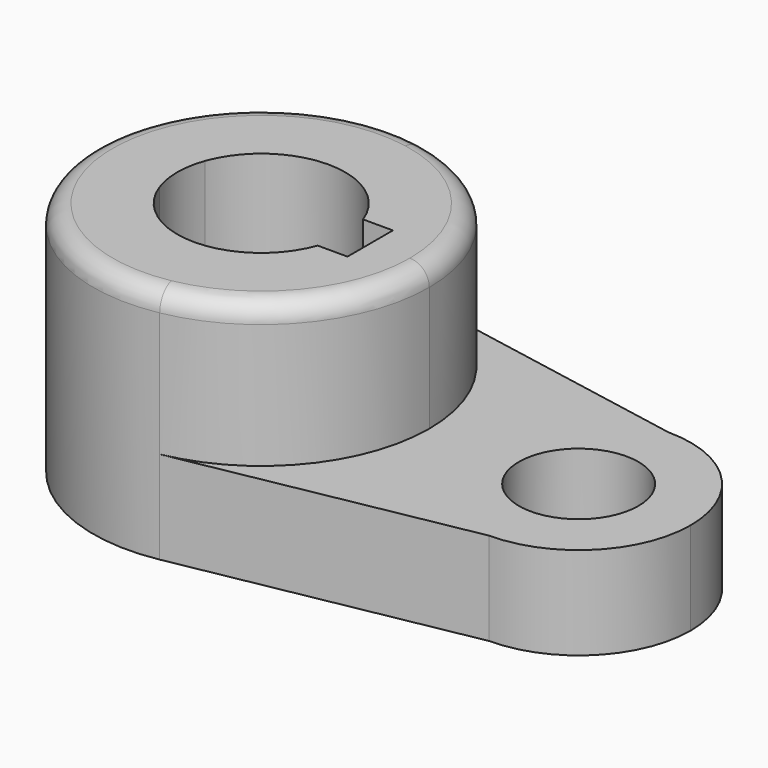
from build123d import *

# Parameters (mm, degrees)
F1_DEPTH = 40.2336
F0_R     = 10.16
F2_DEPTH = 15.7734
F3_R     = 3.302


with BuildPart() as f1:
    # F0 (on Top) → F1 (new body)
    with BuildSketch(Plane.XY):
        with BuildLine():
            ThreePointArc((5.2118162755, -28.0956864325), (21.9710977772, -18.2702350139), (28.575, 0))
            ThreePointArc((28.575, 0), (21.9710978292, 18.2702349515), (5.2118164352, 28.0956864028))
            ThreePointArc((5.2118164352, 28.0956864028), (-28.575, 8.12e-08), (5.2118162755, -28.0956864325))
        make_face()
        with BuildLine():
            ThreePointArc((-13.4477648793, 4.826), (0, 14.2875), (13.4477648793, 4.826))
            Line((13.4477648793, 4.826), (18.5293, 4.826))
            Line((18.5293, 4.826), (18.5293, -4.826))
            Line((18.5293, -4.826), (13.4477648793, -4.826))
            ThreePointArc((13.4477648793, -4.826), (0, -14.2875), (-13.4477648793, -4.826))
            Line((-13.4477648793, -4.826), (-18.5293, -4.826))
            Line((-18.5293, -4.826), (-18.5293, 4.826))
            Line((-18.5293, 4.826), (-13.4477648793, 4.826))
        make_face(mode=Mode.SUBTRACT)
        with BuildLine():
            ThreePointArc((-13.4477648793, -4.826), (-14.2875, 0), (-13.4477648793, 4.826))
            Line((-13.4477648793, 4.826), (-18.5293, 4.826))
            Line((-18.5293, 4.826), (-18.5293, -4.826))
            Line((-18.5293, -4.826), (-13.4477648793, -4.826))
        make_face()
    extrude(amount=F1_DEPTH)

    # F0 (on Top) → F2 (join)
    with BuildSketch(Plane.XY):
        with BuildLine():
            ThreePointArc((5.2118164352, 28.0956864028), (21.9710978292, 18.2702349515), (28.575, 0))
            ThreePointArc((28.575, 0), (21.9710977772, -18.2702350139), (5.2118162755, -28.0956864325))
            Line((5.2118162755, -28.0956864325), (53.975, -19.05))
            ThreePointArc((53.975, -19.05), (67.4453841816, -13.4703841816), (73.025, 0))
            ThreePointArc((73.025, 0), (67.4453841816, 13.4703841816), (53.975, 19.05))
            Line((53.975, 19.05), (5.2118164352, 28.0956864028))
        make_face()
        with Locations((53.975, 0)):
            Circle(F0_R, mode=Mode.SUBTRACT)
    extrude(amount=F2_DEPTH)

    # F3
    f3_edges = [f1.edges().sort_by_distance(p)[0] for p in [
        (-5.211816, 28.095686, 40.2336),
    ]]
    fillet(f3_edges, radius=F3_R)


solid = f1.part
